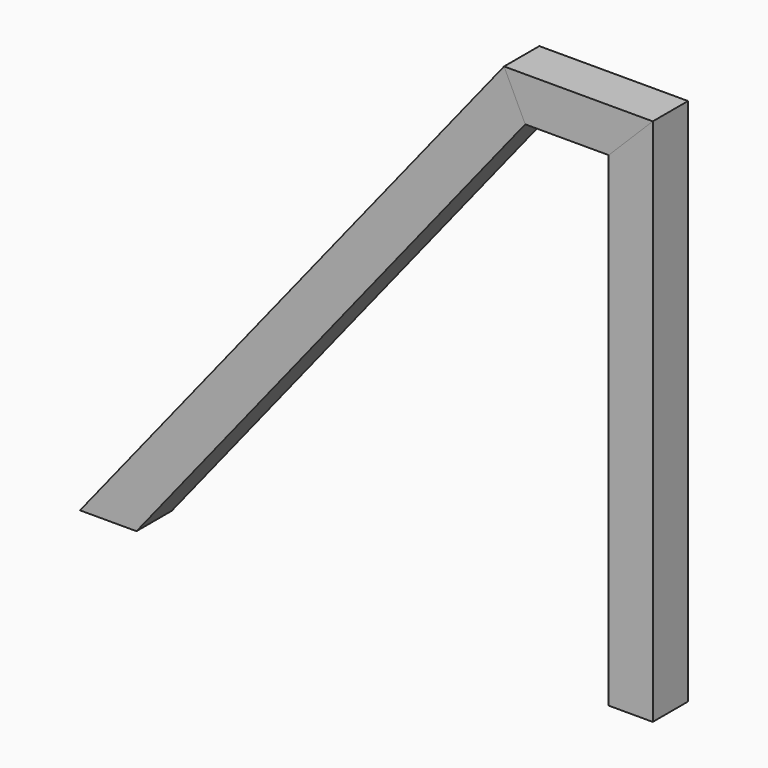
from build123d import *

# Parameters (mm, degrees)
F1_DEPTH = 12.7
F2_DEPTH = 12.7
F3_DEPTH = 12.7
F4_T     = -3.175
F5_T     = -3.175
F6_T     = -3.175


with BuildPart() as f1:
    # F0 (on Front) → F1 (new body, symmetric)
    with BuildSketch(Plane.XZ):
        Polygon((-73.536962542, 279.4), (-85.725, 304.8), (-330.2, 0), (-297.6390458754, 0), align=None)
    extrude(amount=F1_DEPTH, both=True)

    # F4
    f4_openings = [f1.faces().sort_by_distance(p)[0] for p in [
        (-79.630981, 0, 292.1),
        (-313.919523, 0, 0),
    ]]
    offset(amount=F4_T, openings=f4_openings)


with BuildPart() as f2:
    # F0 (on Front) → F2 (new body, symmetric)
    with BuildSketch(Plane.XZ):
        Polygon((-25.4, 279.4), (0, 304.8), (-85.725, 304.8), (-73.536962542, 279.4), align=None)
    extrude(amount=F2_DEPTH, both=True)

    # F5
    f5_openings = [f2.faces().sort_by_distance(p)[0] for p in [
        (-79.630981, 0, 292.1),
        (-12.7, 0, 292.1),
    ]]
    offset(amount=F5_T, openings=f5_openings)


with BuildPart() as f3:
    # F0 (on Front) → F3 (new body, symmetric)
    with BuildSketch(Plane.XZ):
        Polygon((-25.4, 0), (0, 0), (0, 304.8), (-25.4, 279.4), align=None)
    extrude(amount=F3_DEPTH, both=True)

    # F6
    f6_openings = [f3.faces().sort_by_distance(p)[0] for p in [
        (-12.7, 0, 292.1),
        (-12.7, 0, 0),
    ]]
    offset(amount=F6_T, openings=f6_openings)


solid = Compound([f1.part, f2.part, f3.part])
